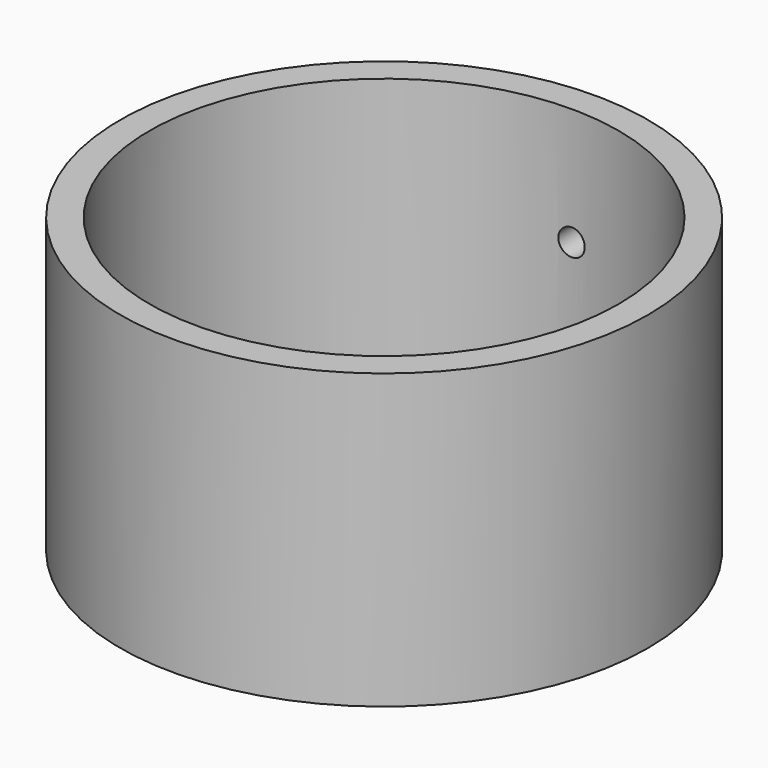
from build123d import *

# Parameters (mm, degrees)
F0_R     = 900
F0_R_2   = 800
F1_DEPTH = 500
F2_R     = 45
F3_DEPTH = 1000


with BuildPart() as f1:
    # F0 (on Top) → F1 (new body, symmetric)
    with BuildSketch(Plane.XY):
        Circle(F0_R)
        Circle(F0_R_2, mode=Mode.SUBTRACT)
    extrude(amount=F1_DEPTH, both=True)

    # F2 (on Front) → F3 (cut)
    with BuildSketch(Plane.XZ):
        with Locations((0, 100)):
            Circle(F2_R)
    extrude(amount=-F3_DEPTH, mode=Mode.SUBTRACT)


solid = f1.part
